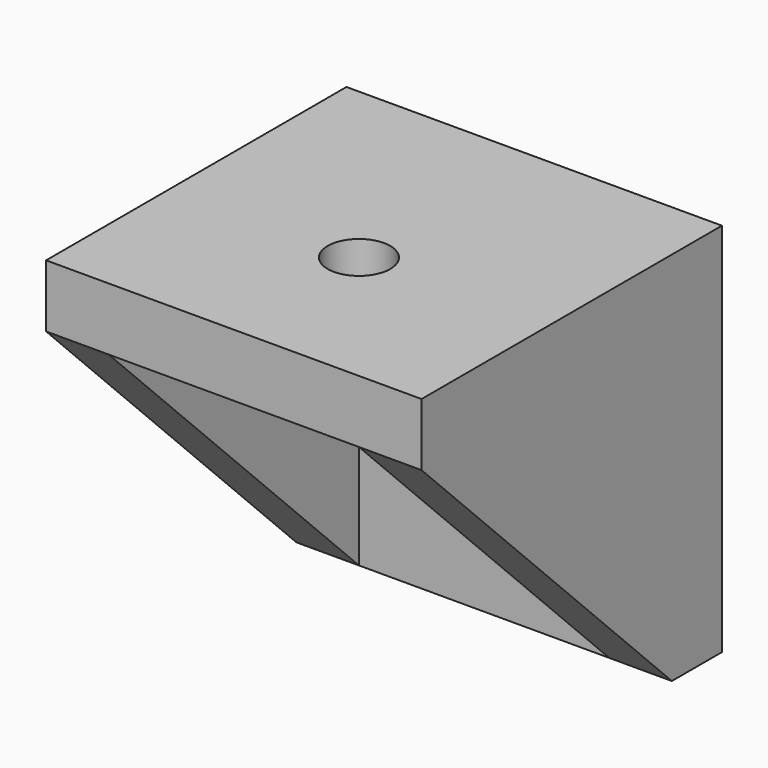
from build123d import *

# Parameters (mm, degrees)
F0_W      = 19.05
F0_H      = 19.05
F1_DEPTH  = 3.175
F2_W      = 19.05
F2_H      = 3.175
F3_DEPTH  = 15.875
F5_DEPTH  = 3.175
F7_DEPTH  = 3.175
F8_R      = 1.5875
F9_DEPTH  = 3.176
F10_R     = 1.5875
F11_DEPTH = 3.176


with BuildPart() as f1:
    # F0 (on Top) → F1 (new body)
    with BuildSketch(Plane.XY):
        Rectangle(F0_W, F0_H)
    extrude(amount=F1_DEPTH)

    # F2 (on face) → F3 (join)
    with BuildSketch(Plane(origin=(0, 0, 0), x_dir=(1, 0, 0), z_dir=(0, 0, -1))):
        with Locations((0, -7.9375)):
            Rectangle(F2_W, F2_H)
    extrude(amount=F3_DEPTH)

    # F4 (on face) → F5 (join)
    with BuildSketch(Plane(origin=(-9.525, 0, 0), x_dir=(0, -1, 0), z_dir=(-1, 0, 0))):
        Polygon((-6.35, -15.875), (9.525, 0), (-6.35, 0), align=None)
    extrude(amount=-F5_DEPTH)

    # F6 (on face) → F7 (join)
    with BuildSketch(Plane.YZ.offset(9.525)):
        Polygon((-9.525, 0), (6.35, -15.875), (6.35, 0), align=None)
    extrude(amount=-F7_DEPTH)

    # F8 (on face) → F9 (cut, through all)
    with BuildSketch(Plane.XZ.offset(-6.35)):
        with Locations((0, -7.9375)):
            Circle(F8_R)
    extrude(amount=-F9_DEPTH, mode=Mode.SUBTRACT)

    # F10 (on face) → F11 (cut, through all)
    with BuildSketch(Plane(origin=(0, 0, 0), x_dir=(1, 0, 0), z_dir=(0, 0, -1))):
        with Locations((0, 1.5875)):
            Circle(F10_R)
    extrude(amount=-F11_DEPTH, mode=Mode.SUBTRACT)


solid = f1.part
